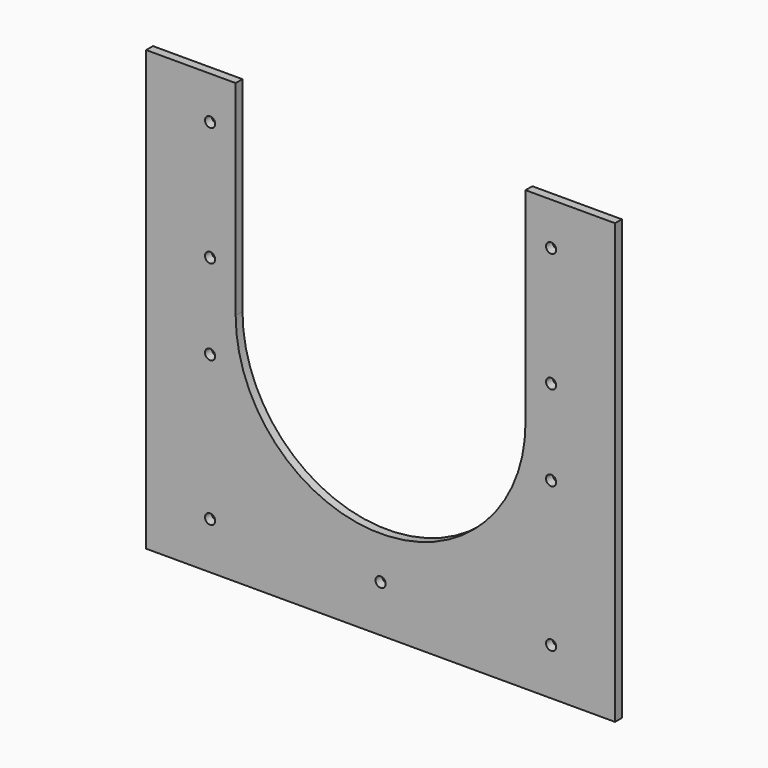
from build123d import *

# Parameters (mm, degrees)
SKETCH005_R      = 6
EXTRUDE004_DEPTH = 1000
EXTRUDE003_DEPTH = 1000
SKETCH003_W      = 550
SKETCH003_H      = 10
EXTRUDE002_DEPTH = 515


with BuildPart() as extrude004:
    # Sketch005 → Extrude004 (new body)
    with BuildSketch(Plane.XZ.offset(2500)):
        with Locations((-200, 1730)):
            Circle(SKETCH005_R)
        with Locations((-200, 1870)):
            Circle(SKETCH005_R)
        with Locations((200, 1870)):
            Circle(SKETCH005_R)
        with Locations((200, 1730)):
            Circle(SKETCH005_R)
        with Locations((-200, 1630)):
            Circle(SKETCH005_R)
        with Locations((-200, 1460)):
            Circle(SKETCH005_R)
        with Locations((200, 1630)):
            Circle(SKETCH005_R)
        with Locations((200, 1460)):
            Circle(SKETCH005_R)
        with Locations((0, 1460)):
            Circle(SKETCH005_R)
    extrude(amount=-EXTRUDE004_DEPTH)


with BuildPart() as extrude003:
    # Sketch004 → Extrude003 (new body)
    with BuildSketch(Plane.XZ.offset(2500)):
        with BuildLine():
            Line((-170, 1920), (-170, 1680))
            ThreePointArc((-170, 1680), (-4.8e-05, 1510), (170, 1679.999905))
            Line((170, 1679.999905), (170, 1920))
            Line((170, 1920), (-170, 1920))
        make_face()
    extrude(amount=-EXTRUDE003_DEPTH)


with BuildPart() as cut002:
    # Sketch003 → Extrude002 (new body)
    with BuildSketch(Plane.XY.offset(1405)):
        with Locations((0, -1720.580576)):
            Rectangle(SKETCH003_W, SKETCH003_H)
    extrude(amount=EXTRUDE002_DEPTH)

    # Cut001: cut Extrude003
    add(extrude003.part, mode=Mode.SUBTRACT)

    # Cut002: cut Extrude004
    add(extrude004.part, mode=Mode.SUBTRACT)


solid = cut002.part
